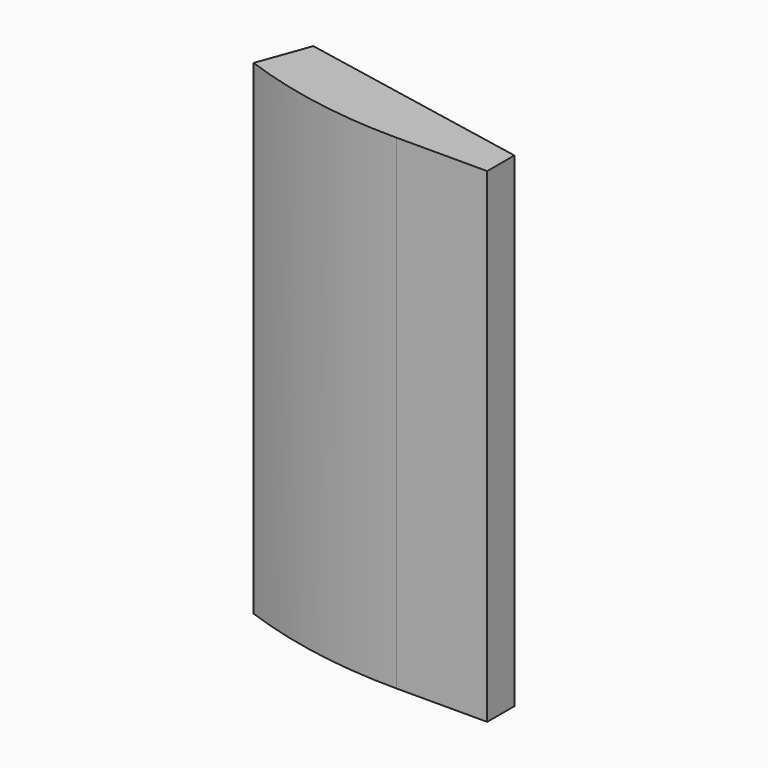
from build123d import *

# Parameters (mm, degrees)
F3_DEPTH = 1000


with BuildPart() as f3:
    # F2 (on face) → F3 (new body)
    with BuildSketch(Plane.XY):
        with BuildLine():
            Line((303.86036, -165.789379), (491.060221, -165.560671))
            Line((491.060221, -165.560671), (490.9747, -95.560723))
            Line((490.9747, -95.560723), (0, 0))
            Line((0, 0), (-38.397282, -105.840393))
            ThreePointArc((-38.397282, -105.840393), (130.107793, -150.794242), (303.86036, -165.789379))
        make_face()
    extrude(amount=F3_DEPTH)


solid = f3.part
